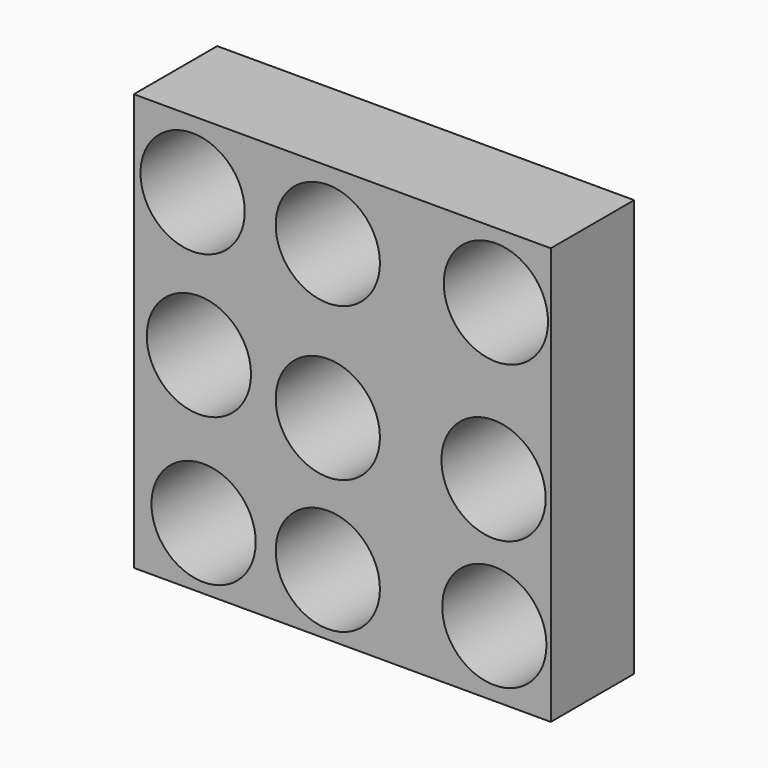
from build123d import *

# Parameters (mm, degrees)
F0_W     = 101.6
F0_H     = 101.6
F0_R     = 12.7
F1_DEPTH = 25.4


with BuildPart() as f1:
    # F0 (on Front) → F1 (new body)
    with BuildSketch(Plane.XZ):
        with Locations((3.532663, 3.283243)):
            Rectangle(F0_W, F0_H)
        with Locations((-30.266313, -32.366816)):
            Circle(F0_R, mode=Mode.SUBTRACT)
        with Locations((0, -32.557767)):
            Circle(F0_R, mode=Mode.SUBTRACT)
        Circle(F0_R, mode=Mode.SUBTRACT)
        with Locations((40.577866, -31.412043)):
            Circle(F0_R, mode=Mode.SUBTRACT)
        with Locations((40.386911, 0)):
            Circle(F0_R, mode=Mode.SUBTRACT)
        with Locations((-31.412043, 3.283243)):
            Circle(F0_R, mode=Mode.SUBTRACT)
        with Locations((-32.939676, 37.713546)):
            Circle(F0_R, mode=Mode.SUBTRACT)
        with Locations((0, 37.331637)):
            Circle(F0_R, mode=Mode.SUBTRACT)
        with Locations((40.959772, 38.095452)):
            Circle(F0_R, mode=Mode.SUBTRACT)
    extrude(amount=F1_DEPTH)


solid = f1.part
